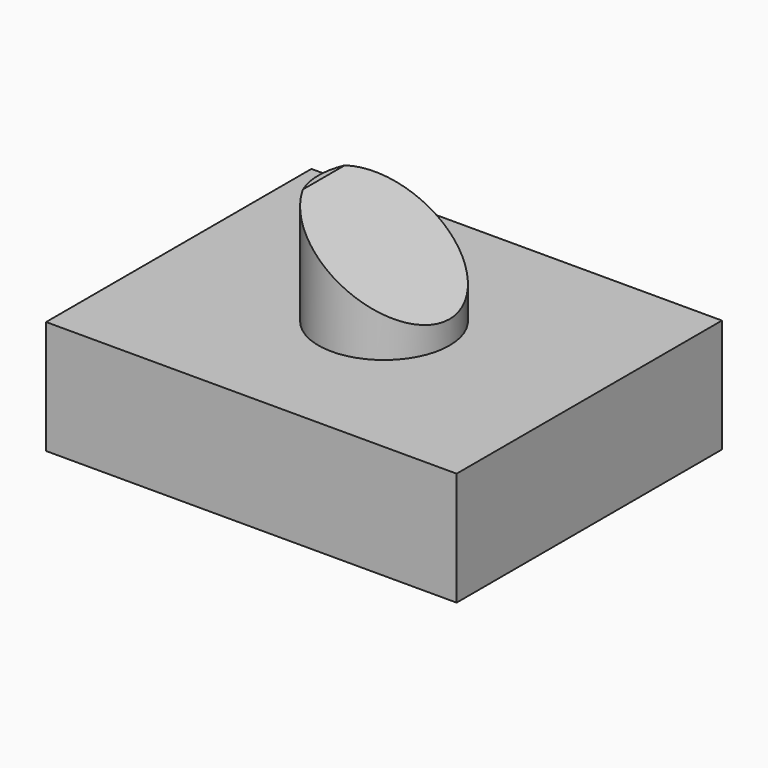
from build123d import *

# Parameters (mm, degrees)
F0_W     = 97.335488
F0_H     = 78.626908
F1_DEPTH = 26.924
F2_R     = 15.53957
F3_DEPTH = 25.4
F5_DEPTH = 63.5


with BuildPart() as f1:
    # F0 (on Top) → F1 (new body)
    with BuildSketch(Plane.XY):
        Rectangle(F0_W, F0_H)
    extrude(amount=-F1_DEPTH)

    # F2 (on Top) → F3 (join)
    with BuildSketch(Plane.XY):
        Circle(F2_R)
    extrude(amount=F3_DEPTH)

    # F4 (on Front) → F5 (cut, symmetric)
    with BuildSketch(Plane.XZ):
        Polygon((23.7744, 28.803602), (-18.8976, 28.4988), (23.7744, 0), align=None)
    extrude(amount=F5_DEPTH, both=True, mode=Mode.SUBTRACT)


solid = f1.part
